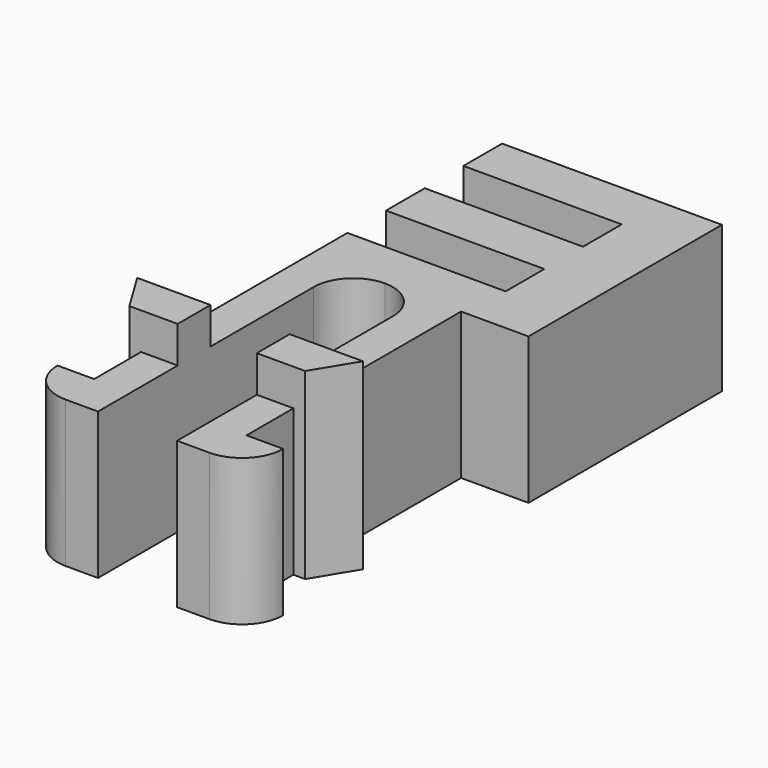
from build123d import *

# Parameters (mm, degrees)
PAD017_DEPTH           = 5
PAD020_DEPTH           = 6.25
SKETCH112_W            = 7.5
SKETCH112_H            = 1.65
PAD082_DEPTH           = 5
SKETCH113_W            = 2.1
SKETCH113_H            = 1.65
PAD083_DEPTH           = 5
SKETCH111_W            = 7.5
SKETCH111_H            = 1.65
PAD084_DEPTH           = 5
LINEARPATTERN026_COUNT = 2
LINEARPATTERN026_PITCH = 3.3


with BuildPart() as obj1:
    # Sketch034 → Pad017 (new body)
    with BuildSketch(Plane.XY):
        with BuildLine():
            Line((-1.35, -1.8), (-1.35, 6))
            ThreePointArc((0, 7.35), (-0.954594, 6.954594), (-1.35, 6))
            Line((0, 9), (0, 7.35))
            Line((-2.6, 9), (0, 9))
            Line((-2.6, -1.8), (-2.6, 9))
            Line((-3.85, -1.8), (-2.6, -1.8))
            ThreePointArc((-3.85, -1.8), (-3.439949, -2.789949), (-2.45, -3.2))
            Line((-1.35, -3.2), (-2.45, -3.2))
            Line((-1.35, -1.8), (-1.35, -3.2))
        make_face()
    extrude(amount=PAD017_DEPTH)

    # Sketch037 → Pad020 (join)
    with BuildSketch(Plane.XY):
        Polygon((-1.35, 0.2), (-1.35, 1.6), (-2.6, 1.6), (-3.85, 1.6), (-3, 0.2), (-2.6, 0.2), align=None)
    extrude(amount=PAD020_DEPTH)


with BuildPart() as obj2:
    # Mirror001: instance of _obj1
    add(obj1.part.mirror(Plane(origin=(0, 0, 0), x_dir=(0, 1, 0), z_dir=(-1, 0, 0))))


with BuildPart() as body042:
    # Fusion001 base: copy of _obj1
    add(obj1.part)

    # Fusion001: union _obj2)
    add(obj2.part)

    # Sketch112 → Pad082 (new body)
    with BuildSketch(Plane.XY):
        with Locations((1.15, 8.175)):
            Rectangle(SKETCH112_W, SKETCH112_H)
    pad082 = extrude(amount=PAD082_DEPTH)

    # Sketch113 → Pad083 (join)
    with BuildSketch(Plane.XY):
        with Locations((3.85, 9.825)):
            Rectangle(SKETCH113_W, SKETCH113_H)
    pad083 = extrude(amount=PAD083_DEPTH)

    # Sketch111 → Pad084 (join)
    with BuildSketch(Plane.XY):
        with Locations((1.15, 11.475)):
            Rectangle(SKETCH111_W, SKETCH111_H)
    pad084 = extrude(amount=PAD084_DEPTH)

    # LinearPattern026: Pad083, Pad082, Pad084 ×2
    with Locations(*[(0, i * LINEARPATTERN026_PITCH, 0) for i in range(1, LINEARPATTERN026_COUNT)]):
        add(pad083)
        add(pad082)
        add(pad084)


solid = body042.part
